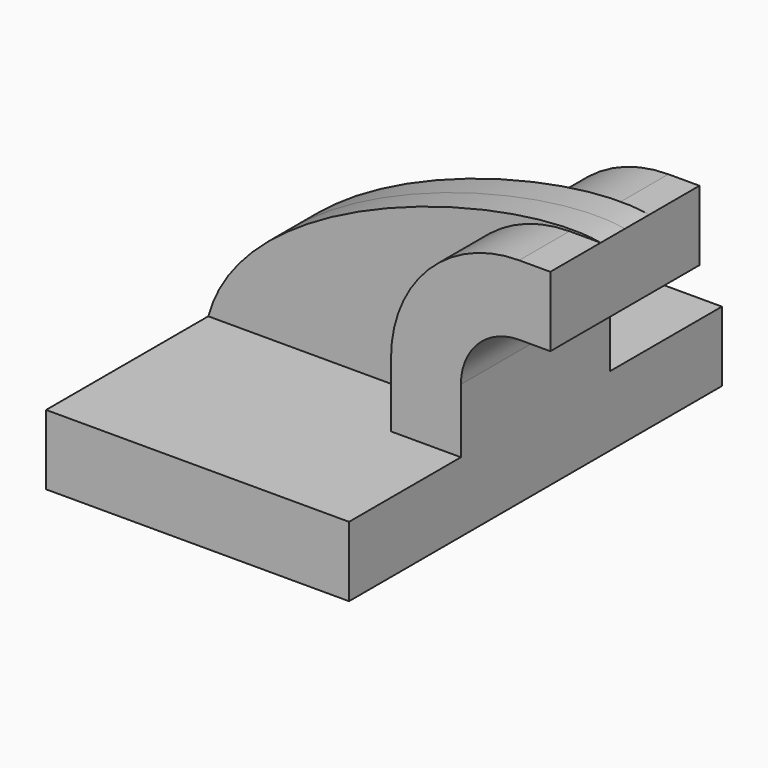
from build123d import *

# Parameters (mm, degrees)
F1_DEPTH = 63.5
F2_DEPTH = 25.4
F3_DEPTH = 8.255


with BuildPart() as f1:
    # F0 (on Front) → F1 (new body, symmetric)
    with BuildSketch(Plane.XZ):
        Polygon((22.225, 9.525), (-41.275, 9.525), (-41.275, -9.525), (41.275, -9.525), (41.275, 9.525), align=None)
    extrude(amount=F1_DEPTH, both=True)

    # F0 (on Front) → F2 (join, symmetric)
    with BuildSketch(Plane.XZ):
        with BuildLine():
            Line((22.225, 27.0002), (22.225, 9.525))
            Line((22.225, 9.525), (41.275, 9.525))
            Line((41.275, 9.525), (41.275, 27.0002))
            ThreePointArc((41.275, 27.0002), (45.92468, 38.22552), (57.15, 42.8752))
            Line((57.15, 42.8752), (65.634008, 42.8752))
            Line((65.634008, 42.8752), (65.634008, 61.9252))
            Line((65.634008, 61.9252), (57.15, 61.9252))
            ThreePointArc((57.15, 61.9252), (32.454296, 51.695904), (22.225, 27.0002))
        make_face()
    extrude(amount=F2_DEPTH, both=True)

    # F0 (on Front) → F3 (join, symmetric)
    with BuildSketch(Plane.XZ):
        with BuildLine():
            add(Edge.make_bspline(
                [(-41.275, 9.525), (-31.476464, 46.034317), (42.099748, 66.494018), (65.634008, 61.9252)],
                knots=[0, 0, 0, 0, 119.06014, 119.06014, 119.06014, 119.06014], degree=3))
            Line((-41.275, 9.525), (22.225, 9.525))
            Line((22.225, 9.525), (22.225, 27.0002))
            ThreePointArc((22.225, 27.0002), (32.454296, 51.695904), (57.15, 61.9252))
            Line((57.15, 61.9252), (65.634008, 61.9252))
        make_face()
    extrude(amount=F3_DEPTH, both=True)


solid = f1.part
